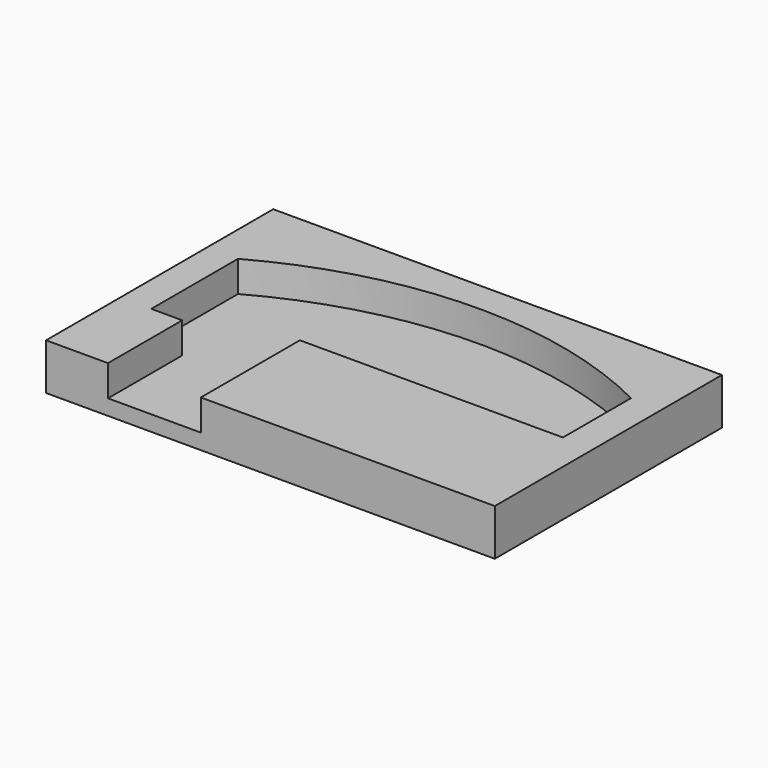
from build123d import *

# Parameters (mm, degrees)
F1_DEPTH = 12.7
F2_W     = 184.15
F2_H     = 116.4964555132
F3_DEPTH = 19.05
F4_DEPTH = 25.4
F5_W     = 38.1
F5_H     = 12.7
F6_DEPTH = 12.7


with BuildPart() as f1:
    # F0 (on Top) → F1 (new body)
    with BuildSketch(Plane.XY):
        with BuildLine():
            Line((98.2942968156, 10.920933083), (110.9942968156, 10.920933083))
            Line((110.9942968156, 10.920933083), (110.9942968156, -14.479066917))
            Line((110.9942968156, -14.479066917), (149.0942968156, -14.479066917))
            Line((149.0942968156, -14.479066917), (149.0942968156, 23.620933083))
            Line((149.0942968156, 23.620933083), (257.0442968156, 23.620933083))
            Line((257.0442968156, 23.620933083), (257.0442968156, 58.545933083))
            ThreePointArc((257.0442968156, 58.545933083), (177.2761177053, 76.6173885961), (98.2942968156, 55.370933083))
            Line((98.2942968156, 55.370933083), (98.2942968156, 10.920933083))
        make_face()
    extrude(amount=F1_DEPTH)

    # F2 (on face) → F3 (join)
    with BuildSketch(Plane(origin=(0, 0, 0), x_dir=(1, 0, 0), z_dir=(0, 0, -1))):
        with Locations((177.6692968156, -31.0691608395)):
            Rectangle(F2_W, F2_H)
    extrude(amount=F3_DEPTH)

    # F4 (cut): a face of the model
    f4_faces = [f1.faces().sort_by_distance(p)[0] for p in [
        (169.3940346963, 39.8760079107, 12.7),
    ]]
    extrude(f4_faces, amount=-F4_DEPTH, mode=Mode.SUBTRACT)

    # F5 (on face) → F6 (cut)
    with BuildSketch(Plane.XY):
        with Locations((130.0442968156, -20.829066917)):
            Rectangle(F5_W, F5_H)
    extrude(amount=-F6_DEPTH, mode=Mode.SUBTRACT)


solid = f1.part
